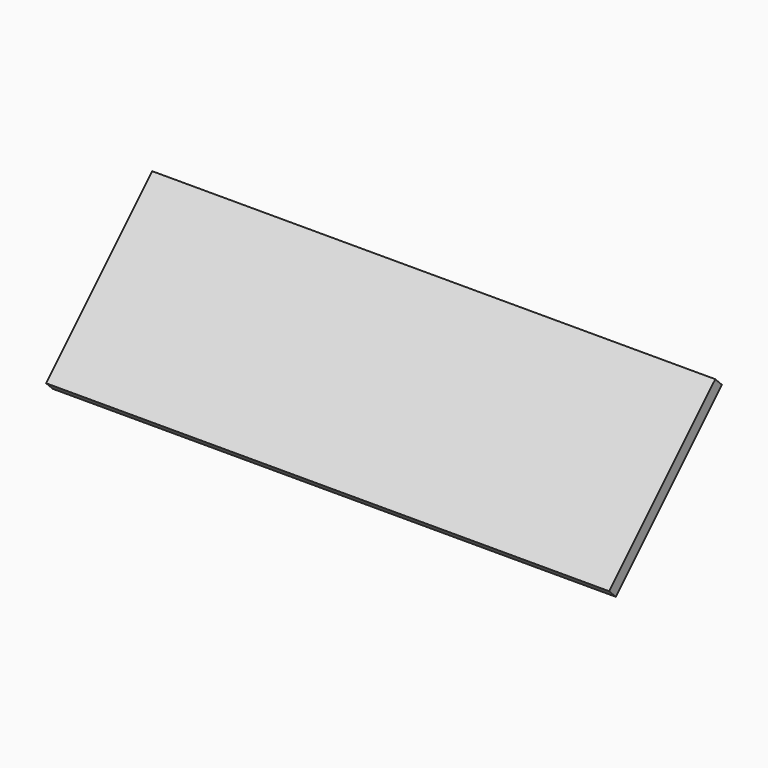
from build123d import *

# Parameters (mm, degrees)
F1_W     = 152.4
F1_H     = 50.8
F2_DEPTH = 3.175
F4_D     = 1.778
F4_DEPTH = 12.2464285714
F4_TIP   = 0.5341650903


with BuildPart() as f2:
    # F1 (on face) → F2 (new body)
    with BuildSketch(Plane(origin=(0, 0, 0), x_dir=(1, 0, 0), z_dir=(0, -0.7071067812, 0.7071067812))):
        with Locations((0, 25.4)):
            Rectangle(F1_W, F1_H)
    extrude(amount=F2_DEPTH)

    # F4
    with Locations(Plane.YZ.offset(76.2)):
        with Locations((3.3675965891, 5.6126595319)):
            Hole(F4_D / 2, depth=F4_DEPTH)
            with Locations((0, 0, -(F4_DEPTH + F4_TIP / 2))):  # 118° drill point
                Cone(0, F4_D / 2, F4_TIP, mode=Mode.SUBTRACT)

    # F5: F2 across plane


with BuildPart() as f2_1:
    add(f2.part)
    add(f2.part.mirror(Plane.YZ))


solid = f2_1.part
